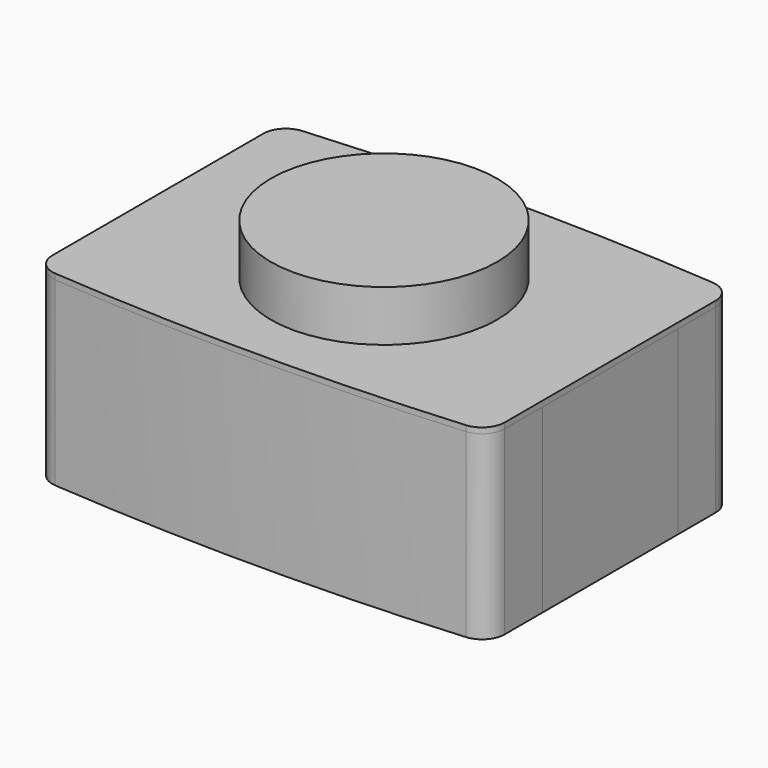
from build123d import *

# Parameters (mm, degrees)
F1_DEPTH = 1.6
F2_DEPTH = 0.5
F0_W     = 0.4
F0_H     = 1.5
F3_DEPTH = 1.6
F4_R     = 1
F5_DEPTH = 1.6
F6_R     = 0.2
F7_R     = 1
F7_W     = 0.4
F7_H     = 1.5
F8_DEPTH = 0.05


with BuildPart() as f1:
    # F0 (on Top) → F1 (new body)
    with BuildSketch(Plane.XY):
        with BuildLine():
            Line((0, 1.35), (-2, 1.35))
            Line((-2, 1.35), (-2, 0.75))
            Line((-2, 0.75), (-1.6, 0.75))
            Line((-1.6, 0.75), (-1.6, -0.75))
            Line((-1.6, -0.75), (-2, -0.75))
            Line((-2, -0.75), (-2, -1.35))
            Line((-2, -1.35), (0, -1.35))
            Line((0, -1.35), (0, -1))
            ThreePointArc((0, -1), (-1, 0), (0, 1))
            Line((0, 1), (0, 1.35))
        make_face()
        with BuildLine():
            ThreePointArc((2, 1.35), (0, 1.4355056225), (-2, 1.35))
            Line((-2, 1.35), (0, 1.35))
            Line((0, 1.35), (2, 1.35))
        make_face()
        with BuildLine():
            Line((2, 1.35), (0, 1.35))
            Line((0, 1.35), (0, 1))
            ThreePointArc((0, 1), (0.7071067812, 0.7071067812), (1, 0))
            ThreePointArc((1, 0), (0.7071067812, -0.7071067812), (0, -1))
            Line((0, -1), (0, -1.35))
            Line((0, -1.35), (2, -1.35))
            Line((2, -1.35), (2, -0.75))
            Line((2, -0.75), (1.6, -0.75))
            Line((1.6, -0.75), (1.6, 0.75))
            Line((1.6, 0.75), (2, 0.75))
            Line((2, 0.75), (2, 1.35))
        make_face()
        with BuildLine():
            Line((0, -1.35), (-2, -1.35))
            ThreePointArc((-2, -1.35), (0, -1.4355056225), (2, -1.35))
            Line((2, -1.35), (0, -1.35))
        make_face()
    extrude(amount=F1_DEPTH)

    # F0 (on Top) → F2 (join)
    with BuildSketch(Plane.XY):
        with BuildLine():
            Line((0, -1), (0, 1))
            ThreePointArc((0, 1), (-1, 0), (0, -1))
        make_face()
        with BuildLine():
            ThreePointArc((1, 0), (0.7071067812, 0.7071067812), (0, 1))
            Line((0, 1), (0, -1))
            ThreePointArc((0, -1), (0.7071067812, -0.7071067812), (1, 0))
        make_face()
    extrude(amount=F2_DEPTH)

    # F6
    f6_edges = [f1.edges().sort_by_distance(p)[0] for p in [
        (-2, -1.35, 0.8),
        (2, -1.35, 0.8),
        (-2, 1.35, 0.8),
        (2, 1.35, 0.8),
    ]]
    fillet(f6_edges, radius=F6_R)


with BuildPart() as f3:
    # F0 (on Top) → F3 (new body)
    with BuildSketch(Plane.XY):
        with Locations((-1.8, 0)):
            Rectangle(F0_W, F0_H)
    extrude(amount=F3_DEPTH)


with BuildPart() as f3b:
    # F0 (on Top) → F3, piece 2 (new body)
    with BuildSketch(Plane.XY):
        with Locations((1.8, 0)):
            Rectangle(F0_W, F0_H)
    extrude(amount=F3_DEPTH)


with BuildPart() as f5:
    # F4 (on face) → F5 (new body)
    with BuildSketch(Plane.XY.offset(0.5)):
        Circle(F4_R)
    extrude(amount=F5_DEPTH)


with BuildPart() as f8:
    # F7 (on face) → F8 (new body)
    with BuildSketch(Plane.XY.offset(1.6)):
        with BuildLine():
            ThreePointArc((2, 1.16567235), (1.9467975417, 1.3015049004), (1.8154951824, 1.3650711948))
            ThreePointArc((1.8154951824, 1.3650711948), (0, 1.4355056225), (-1.8154951824, 1.3650711948))
            ThreePointArc((-1.8154951824, 1.3650711948), (-1.9467975417, 1.3015049004), (-2, 1.16567235))
            Line((-2, 1.16567235), (-2, 0.75))
            Line((-2, 0.75), (-1.6, 0.75))
            Line((-1.6, 0.75), (-1.6, -0.75))
            Line((-1.6, -0.75), (-2, -0.75))
            Line((-2, -0.75), (-2, -1.16567235))
            ThreePointArc((-2, -1.16567235), (-1.9467975417, -1.3015049004), (-1.8154951824, -1.3650711948))
            ThreePointArc((-1.8154951824, -1.3650711948), (0, -1.4355056225), (1.8154951824, -1.3650711948))
            ThreePointArc((1.8154951824, -1.3650711948), (1.9467975417, -1.3015049004), (2, -1.16567235))
            Line((2, -1.16567235), (2, -0.75))
            Line((2, -0.75), (1.6, -0.75))
            Line((1.6, -0.75), (1.6, 0.75))
            Line((1.6, 0.75), (2, 0.75))
            Line((2, 0.75), (2, 1.16567235))
        make_face()
        Circle(F7_R, mode=Mode.SUBTRACT)
        with Locations((1.8, 0)):
            Rectangle(F7_W, F7_H)
        with Locations((-1.8, 0)):
            Rectangle(F7_W, F7_H)
    extrude(amount=F8_DEPTH)


solid = Compound([f1.part, f3.part, f3b.part, f5.part, f8.part])
